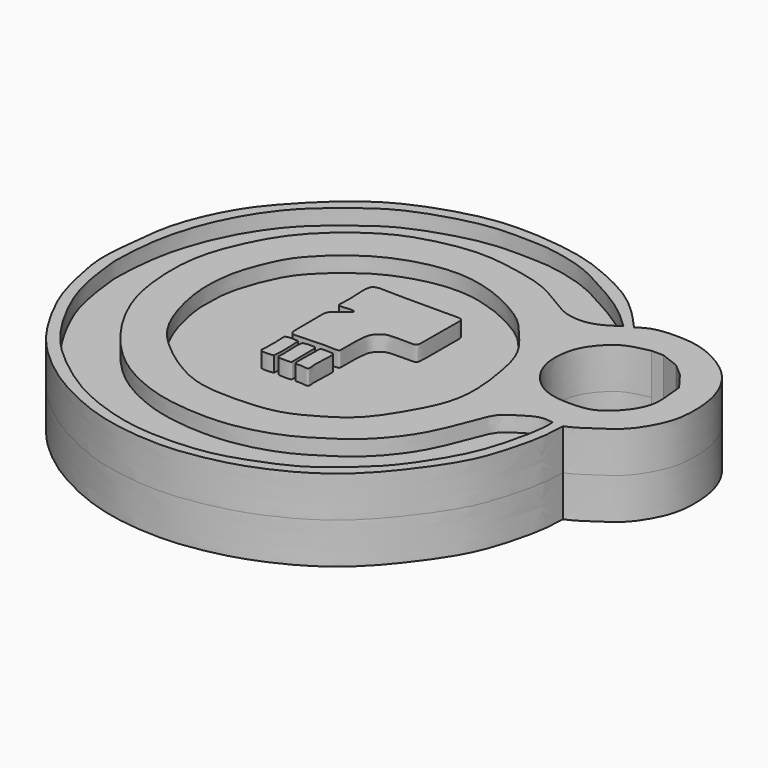
from build123d import *

# Parameters (mm, degrees)
F1_DEPTH = 4
F2_DEPTH = 2.5


with BuildPart() as f1:
    # F0 (on Top) → F1 (new body, symmetric)
    with BuildSketch(Plane.XY):
        with BuildLine():
            add(Edge.make_bspline(
                [(49.6250540018, 25.3603663296), (49.6041552876, 24.5284855052), (49.5391814535, 22.9981034282), (48.800396278, 19.8798473162), (47.660670407, 16.2855274034), (44.7864509935, 12.3052267661), (42.5707945919, 9.6779078572), (39.3867573903, 7.0459323803), (34.7675448189, 4.9042000754), (30.9860487319, 4.0711894016), (27.4303086068, 3.6234501929), (21.6642812609, 4.1804701792), (16.973260492, 6.1950788331), (13.6785819721, 8.1985805588), (10.5414836017, 10.9554166208), (8.3539154884, 13.9290976684), (6.1572030292, 18.0975296527), (5.398589693, 21.2946437775), (4.5786375773, 24.8646372763), (5.1019671106, 28.7849942096), (5.3924372191, 32.6268504655), (7.6315009102, 37.8849504367), (10.5075137841, 41.2110180447), (13.7082417144, 44.3724047135), (17.1477328902, 46.5653744251), (21.5762562121, 48.1613598502), (26.1262273505, 49.052608554), (32.6692116626, 48.3952395965), (36.3153465909, 47.0224810039), (40.5343155117, 44.9543671943), (42.6092544158, 42.6449912994), (43.6660423875, 41.4748825133)],
                knots=[0, 0, 0, 0, 0.0257849781, 0.0553392229, 0.088303858, 0.125268031, 0.1564717921, 0.1903347184, 0.2282937322, 0.2610688196, 0.2926799601, 0.3329500019, 0.3709908041, 0.4039240751, 0.437699992, 0.4703468552, 0.5064423059, 0.5370523335, 0.5688089792, 0.6018516331, 0.6350486958, 0.6746787132, 0.7102468124, 0.7454573624, 0.7793671501, 0.8152702077, 0.8519222348, 0.8944388943, 0.9279571079, 0.9636245138, 1, 1, 1, 1], degree=3))
            add(Edge.make_bspline(
                [(43.6660423875, 41.4748825133), (44.0389129962, 41.728700951), (44.8953210825, 42.3116703042), (47.3065892254, 42.4661274246), (49.3803835281, 42.2344519351), (51.1656259542, 41.5227123733), (53.0642688331, 40.372304896), (54.6046817065, 38.6805938271), (55.6332579766, 36.3860278635), (55.9163356509, 33.7678886526), (55.7161149749, 31.4728563205), (54.7908055948, 29.53386275), (53.652607457, 27.8538819988), (51.7963805227, 26.6255273714), (50.394774834, 25.640836965), (49.6250540018, 25.3603663296)],
                knots=[0, 0, 0, 0, 0.0622792722, 0.142435631, 0.2182308324, 0.289835649, 0.3669698488, 0.4453225023, 0.527428178, 0.6118769342, 0.69060568, 0.7662510485, 0.8396319506, 0.9172437674, 1, 1, 1, 1], degree=3))
        make_face()
        with BuildLine():
            add(Edge.make_bspline(
                [(42.9106727242, 41.1391630769), (42.1583705696, 41.8516928035), (40.5740756874, 43.3522297806), (36.9832612557, 45.3752304833), (34.2231547006, 46.8748778475), (30.3799612045, 47.6896819818), (28.8381144489, 47.6613849044), (25.3574937131, 47.8398824972), (21.6093274365, 47.0301745125), (17.2834927343, 45.505091338), (14.5763258689, 43.4505285987), (11.5372326989, 41.0242193523), (9.7427441133, 38.6636649415), (8.6448978536, 36.8980772163), (7.5151239407, 34.5809224405), (6.7649624698, 32.3534032369), (6.0499937799, 29.4003227026), (5.8375374332, 25.3202150242), (6.006705134, 24.5472492837), (6.3779260858, 20.3992309421), (8.2971670305, 16.1076612663), (10.7535408971, 12.2259366699), (14.0935144523, 9.3382132662), (17.6149529144, 6.9060516376), (22.1869118642, 5.2255061041), (26.1219417962, 4.662064741), (30.9863723614, 4.8864516772), (34.2374401941, 5.9155389119), (38.4950248879, 7.5904587842), (41.4280693646, 10.1938401588), (43.6940644712, 12.2063439054), (46.6269690711, 16.7183421679), (47.8083636759, 19.9655996684), (48.6012330416, 23.5841322774), (48.6533261611, 24.7571013879), (48.6178956926, 25.3603663296)],
                knots=[0, 0, 0, 0, 0.0291620606, 0.0618208015, 0.0915574376, 0.1228713723, 0.1434284707, 0.1728602783, 0.2054622188, 0.2399300561, 0.270125027, 0.3021231397, 0.3299362567, 0.3533578943, 0.3791569339, 0.4038775112, 0.4332462316, 0.4652443425, 0.4801848431, 0.5119892169, 0.5482619565, 0.5829209642, 0.616795376, 0.6505549765, 0.68602627, 0.7188501641, 0.7541432575, 0.7844982328, 0.8190381372, 0.8508654804, 0.8794432813, 0.9165909421, 0.9478565508, 0.9783907221, 1, 1, 1, 1], degree=3))
            add(Edge.make_bspline(
                [(48.6178956926, 25.3603663296), (48.1794123176, 25.4225663082), (47.2331276474, 25.5567991882), (45.676359333, 24.4920786232), (44.5544688712, 23.8614769141), (43.7712516377, 22.105876457), (42.8683971945, 19.479463805), (41.4480963326, 16.7461455456), (38.9865486553, 13.9205631236), (36.7952115051, 12.535090456), (34.5464815007, 11.0583096166), (31.4537763928, 9.9679557046), (27.9909985562, 9.425203962), (23.4790205701, 9.7656850036), (20.2416564265, 10.8153227303), (17.0185623645, 12.5525578744), (14.375733914, 15.2197408436), (12.2651925312, 18.2519331283), (10.7749143904, 21.5560984123), (10.1427286325, 25.3741437767), (10.1791914236, 29.7043932374), (11.7666195914, 33.9415481084), (14.0875041795, 37.9429502106), (18.5033515167, 41.5015264364), (21.8187007914, 42.9257179245), (26.6459282863, 43.9425401498), (30.6118387637, 43.275815212), (34.0226886209, 42.5361064025), (36.6669094259, 40.7945715123), (38.3787502172, 39.8128473438), (40.8453844277, 39.7246614269), (42.2119715484, 40.6606285859), (42.9106727242, 41.1391630769)],
                knots=[0, 0, 0, 0, 0.0215840719, 0.046587475, 0.0674861871, 0.0924895842, 0.1236006119, 0.1566839483, 0.1924493482, 0.2223988955, 0.2526285332, 0.2860121326, 0.3211594245, 0.3604988909, 0.3949677771, 0.4301637847, 0.4661813179, 0.5019049458, 0.5371009577, 0.5735812613, 0.6121313771, 0.6513449064, 0.6916378429, 0.7352420206, 0.7709795983, 0.8116778594, 0.8491636045, 0.8839187476, 0.9166148737, 0.942638807, 0.970677372, 1, 1, 1, 1], degree=3))
        make_face(mode=Mode.SUBTRACT)
        with BuildLine():
            add(Edge.make_bspline(
                [(15.7174244523, 33.333696425), (16.1183595528, 34.0841642087), (16.9938975883, 35.2357514669), (20.4199323764, 38.3973302309), (25.3886741219, 40.1659215732), (29.8010477175, 40.0848799926), (33.7559597272, 38.4165266599), (36.1770152302, 36.7995638131), (37.6168212209, 35.0048181769), (39.537114718, 32.7191218399), (40.2823537481, 29.6475578373), (40.785457777, 26.0257123418), (40.4336531481, 22.8615264256), (38.6544170557, 19.6062818778), (36.6840299513, 16.5468632997), (33.4868456047, 14.640486096), (30.9090554234, 13.3734993706), (26.108682376, 13.1554301396), (22.4486227356, 13.6232501472), (18.3224284018, 16.4035979561), (15.336214655, 19.4120767704), (13.9941887241, 24.3974654569), (13.9151915451, 26.8533832419), (14.1034122066, 29.6648539328), (15.1894668193, 32.3454686688), (15.7174244523, 33.333696425)],
                knots=[0, 0, 0, 0, 0.0346424551, 0.0831172454, 0.135823464, 0.1837242783, 0.230844767, 0.2694816817, 0.3039353754, 0.3428971711, 0.3836486701, 0.4273498818, 0.4679349813, 0.5116827591, 0.5555405343, 0.5988098091, 0.6378454278, 0.6871690717, 0.7315870252, 0.7815587318, 0.8293351066, 0.8802764154, 0.9160873121, 0.9543822714, 1, 1, 1, 1], degree=3))
        make_face(mode=Mode.SUBTRACT)
        with BuildLine():
            add(Edge.make_bspline(
                [(47.1071600914, 39.2927080393), (46.2924564008, 39.1192424218), (44.780678203, 38.7973566348), (43.4572867407, 37.5577074802), (42.3308457562, 36.0762317035), (41.9028123031, 33.6289956222), (42.4741557851, 31.3357605225), (44.2127617125, 29.2988923207), (46.2346929716, 28.6147232562), (48.2147891572, 28.5995789351), (50.156584466, 28.8001718194), (52.1979664641, 30.8806996435), (52.8286535008, 32.6265703431), (52.7369219558, 34.0184564342), (52.6237418809, 35.2086197428), (52.562598139, 35.8515866101)],
                knots=[0, 0, 0, 0, 0.0825829457, 0.1532423361, 0.2256248827, 0.3086213612, 0.390810994, 0.4767274277, 0.5540675603, 0.6287367501, 0.7026550201, 0.7923798802, 0.8646072958, 0.9268562371, 1, 1, 1, 1], degree=3))
            Line((47.1071600914, 39.2927080393), (48.2821762562, 39.2927080393))
            Line((48.2821762562, 39.2927080393), (50.0447042286, 38.6212728918))
            Line((50.0447042286, 38.6212728918), (51.3036511838, 37.5301837921))
            Line((51.3036511838, 37.5301837921), (52.562598139, 35.8515866101))
        make_face(mode=Mode.SUBTRACT)
    extrude(amount=F1_DEPTH, both=True)


with BuildPart() as f1b:
    # F0 (on Top) → F1, piece 2 (new body, symmetric)
    with BuildSketch(Plane.XY):
        with BuildLine():
            add(Edge.make_bspline(
                [(25.3584720194, 30.1984250546), (25.3237544531, 30.3082954137), (24.5622288978, 30.295054064), (23.6940317619, 30.1200762861), (23.7981972492, 30.9119261971), (23.8064515069, 32.4726487339), (23.5670739893, 34.4793138805), (25.295060866, 34.3770721032), (27.4430489504, 34.3497551159), (29.3807265631, 34.3704597063), (31.5989585187, 34.3559784006), (32.6310618325, 34.3944143964), (32.6622735165, 33.6655438017), (32.6121525699, 31.1934649276), (32.6451326621, 29.864573272), (32.6211364028, 28.7638845742), (31.8643592069, 28.8261966827), (29.9690028115, 28.822859443), (29.4938683331, 28.6830701311), (28.9193943544, 28.1910591813), (28.5111966349, 27.6086329641), (28.5124464513, 24.947078798), (28.5736242537, 24.3481660477), (27.519632425, 24.4646144242), (26.432942767, 24.4594901545), (24.4259014025, 24.305087834), (23.742878361, 24.4155124172), (23.7969495491, 25.6754489753), (23.7400582735, 28.1419486866), (23.8014570724, 28.9053241325), (24.6222850899, 29.5392781125), (25.3962481117, 30.0788754069), (25.3584720194, 30.1984250546)],
                knots=[0, 0, 0, 0, 0.0267712667, 0.0538645981, 0.0763792358, 0.1167688543, 0.1562335567, 0.1913161822, 0.2371749641, 0.2810443522, 0.3273341443, 0.3552238027, 0.3779664603, 0.4265071821, 0.4643218844, 0.4925085216, 0.5166783123, 0.5591736158, 0.5814068524, 0.6063023627, 0.632943968, 0.6830145846, 0.7034743131, 0.7312854039, 0.7657865756, 0.8093286098, 0.8313806813, 0.8638526491, 0.9129884605, 0.9389396828, 0.9708702554, 1, 1, 1, 1], degree=3))
        make_face()
    extrude(amount=F1_DEPTH, both=True)


with BuildPart() as f1c:
    # F0 (on Top) → F1, piece 3 (new body, symmetric)
    with BuildSketch(Plane.XY):
        with BuildLine():
            add(Edge.make_bspline(
                [(25.6396494806, 23.6998610198), (25.8224070937, 23.7494312797), (26.522313083, 23.7714172452), (26.8146642872, 23.729564148), (26.8435238627, 23.033122053), (26.8364220312, 20.9878445915), (26.8771244475, 20.6825967463), (26.5129480648, 20.6312200268), (25.4110441614, 20.6358315788), (25.5571840573, 21.0845391701), (25.4308224334, 22.8560660301), (25.4771844462, 23.5924104504), (25.5606824365, 23.6784423942), (25.6396494806, 23.6998610198)],
                knots=[0, 0, 0, 0, 0.1058447374, 0.1609406405, 0.2507754744, 0.4146119922, 0.4685473555, 0.5326043851, 0.6436388451, 0.7063382121, 0.8593472289, 0.9542659487, 1, 1, 1, 1], degree=3))
        make_face()
        with BuildLine():
            add(Edge.make_bspline(
                [(25.1121878389, 20.7288015749), (25.2104665893, 21.7298188054), (25.161434096, 22.6975629588), (25.0871186811, 23.7026153981)],
                knots=[0, 0, 0, 0, 2.9739194874, 2.9739194874, 2.9739194874, 2.9739194874], degree=3))
            add(Edge.make_bspline(
                [(25.0871186811, 23.7026153981), (24.7826245211, 23.7745811729), (23.7554245423, 23.8037743593), (23.8237702711, 23.3716931188), (23.8479194184, 22.1644904192), (23.8285818669, 21.0729425896), (23.7377277157, 20.5938115775), (24.823619481, 20.640183599), (25.1121878389, 20.7288015749)],
                knots=[0, 0, 0, 0, 0.200549177, 0.2969923572, 0.5008583651, 0.6965755911, 0.7973875027, 1, 1, 1, 1], degree=3))
        make_face()
    extrude(amount=F1_DEPTH, both=True)


with BuildPart() as f1d:
    # F0 (on Top) → F1, piece 4 (new body, symmetric)
    with BuildSketch(Plane.XY):
        with BuildLine():
            add(Edge.make_bspline(
                [(27.23213844, 23.7589348108), (27.1623008803, 23.701992579), (27.2200514343, 23.3971186342), (27.143942032, 22.4076328818), (27.1488617146, 21.1568035813), (27.1524106737, 20.6059158051), (27.7773602293, 20.7638043506), (28.660354154, 20.4768313328), (28.4266683937, 21.3725566525), (28.5380085425, 22.4624972338), (28.556782305, 23.3125519342), (28.5503802809, 23.8162032333), (27.9148245929, 23.7925412567), (27.3356153945, 23.8433050085), (27.23213844, 23.7589348108)],
                knots=[0, 0, 0, 0, 0.0558572025, 0.1585487645, 0.2744274609, 0.3368510012, 0.4114946226, 0.495687554, 0.5755114055, 0.6854918557, 0.7796036035, 0.8409861747, 0.9172374689, 1, 1, 1, 1], degree=3))
        make_face()
    extrude(amount=F1_DEPTH, both=True)


with BuildPart() as f2:
    # F0 (on Top) → F2 (new body, symmetric)
    with BuildSketch(Plane.XY):
        with BuildLine():
            add(Edge.make_bspline(
                [(48.6178956926, 25.3603663296), (48.1794123176, 25.4225663082), (47.2331276474, 25.5567991882), (45.676359333, 24.4920786232), (44.5544688712, 23.8614769141), (43.7712516377, 22.105876457), (42.8683971945, 19.479463805), (41.4480963326, 16.7461455456), (38.9865486553, 13.9205631236), (36.7952115051, 12.535090456), (34.5464815007, 11.0583096166), (31.4537763928, 9.9679557046), (27.9909985562, 9.425203962), (23.4790205701, 9.7656850036), (20.2416564265, 10.8153227303), (17.0185623645, 12.5525578744), (14.375733914, 15.2197408436), (12.2651925312, 18.2519331283), (10.7749143904, 21.5560984123), (10.1427286325, 25.3741437767), (10.1791914236, 29.7043932374), (11.7666195914, 33.9415481084), (14.0875041795, 37.9429502106), (18.5033515167, 41.5015264364), (21.8187007914, 42.9257179245), (26.6459282863, 43.9425401498), (30.6118387637, 43.275815212), (34.0226886209, 42.5361064025), (36.6669094259, 40.7945715123), (38.3787502172, 39.8128473438), (40.8453844277, 39.7246614269), (42.2119715484, 40.6606285859), (42.9106727242, 41.1391630769)],
                knots=[0, 0, 0, 0, 0.0215840719, 0.046587475, 0.0674861871, 0.0924895842, 0.1236006119, 0.1566839483, 0.1924493482, 0.2223988955, 0.2526285332, 0.2860121326, 0.3211594245, 0.3604988909, 0.3949677771, 0.4301637847, 0.4661813179, 0.5019049458, 0.5371009577, 0.5735812613, 0.6121313771, 0.6513449064, 0.6916378429, 0.7352420206, 0.7709795983, 0.8116778594, 0.8491636045, 0.8839187476, 0.9166148737, 0.942638807, 0.970677372, 1, 1, 1, 1], degree=3))
            add(Edge.make_bspline(
                [(42.9106727242, 41.1391630769), (42.1583705696, 41.8516928035), (40.5740756874, 43.3522297806), (36.9832612557, 45.3752304833), (34.2231547006, 46.8748778475), (30.3799612045, 47.6896819818), (28.8381144489, 47.6613849044), (25.3574937131, 47.8398824972), (21.6093274365, 47.0301745125), (17.2834927343, 45.505091338), (14.5763258689, 43.4505285987), (11.5372326989, 41.0242193523), (9.7427441133, 38.6636649415), (8.6448978536, 36.8980772163), (7.5151239407, 34.5809224405), (6.7649624698, 32.3534032369), (6.0499937799, 29.4003227026), (5.8375374332, 25.3202150242), (6.006705134, 24.5472492837), (6.3779260858, 20.3992309421), (8.2971670305, 16.1076612663), (10.7535408971, 12.2259366699), (14.0935144523, 9.3382132662), (17.6149529144, 6.9060516376), (22.1869118642, 5.2255061041), (26.1219417962, 4.662064741), (30.9863723614, 4.8864516772), (34.2374401941, 5.9155389119), (38.4950248879, 7.5904587842), (41.4280693646, 10.1938401588), (43.6940644712, 12.2063439054), (46.6269690711, 16.7183421679), (47.8083636759, 19.9655996684), (48.6012330416, 23.5841322774), (48.6533261611, 24.7571013879), (48.6178956926, 25.3603663296)],
                knots=[0, 0, 0, 0, 0.0291620606, 0.0618208015, 0.0915574376, 0.1228713723, 0.1434284707, 0.1728602783, 0.2054622188, 0.2399300561, 0.270125027, 0.3021231397, 0.3299362567, 0.3533578943, 0.3791569339, 0.4038775112, 0.4332462316, 0.4652443425, 0.4801848431, 0.5119892169, 0.5482619565, 0.5829209642, 0.616795376, 0.6505549765, 0.68602627, 0.7188501641, 0.7541432575, 0.7844982328, 0.8190381372, 0.8508654804, 0.8794432813, 0.9165909421, 0.9478565508, 0.9783907221, 1, 1, 1, 1], degree=3))
        make_face()
    extrude(amount=F2_DEPTH, both=True)


with BuildPart() as f2b:
    # F0 (on Top) → F2, piece 2 (new body, symmetric)
    with BuildSketch(Plane.XY):
        with BuildLine():
            add(Edge.make_bspline(
                [(15.7174244523, 33.333696425), (16.1183595528, 34.0841642087), (16.9938975883, 35.2357514669), (20.4199323764, 38.3973302309), (25.3886741219, 40.1659215732), (29.8010477175, 40.0848799926), (33.7559597272, 38.4165266599), (36.1770152302, 36.7995638131), (37.6168212209, 35.0048181769), (39.537114718, 32.7191218399), (40.2823537481, 29.6475578373), (40.785457777, 26.0257123418), (40.4336531481, 22.8615264256), (38.6544170557, 19.6062818778), (36.6840299513, 16.5468632997), (33.4868456047, 14.640486096), (30.9090554234, 13.3734993706), (26.108682376, 13.1554301396), (22.4486227356, 13.6232501472), (18.3224284018, 16.4035979561), (15.336214655, 19.4120767704), (13.9941887241, 24.3974654569), (13.9151915451, 26.8533832419), (14.1034122066, 29.6648539328), (15.1894668193, 32.3454686688), (15.7174244523, 33.333696425)],
                knots=[0, 0, 0, 0, 0.0346424551, 0.0831172454, 0.135823464, 0.1837242783, 0.230844767, 0.2694816817, 0.3039353754, 0.3428971711, 0.3836486701, 0.4273498818, 0.4679349813, 0.5116827591, 0.5555405343, 0.5988098091, 0.6378454278, 0.6871690717, 0.7315870252, 0.7815587318, 0.8293351066, 0.8802764154, 0.9160873121, 0.9543822714, 1, 1, 1, 1], degree=3))
        make_face()
        with BuildLine():
            add(Edge.make_bspline(
                [(25.0871186811, 23.7026153981), (24.7826245211, 23.7745811729), (23.7554245423, 23.8037743593), (23.8237702711, 23.3716931188), (23.8479194184, 22.1644904192), (23.8285818669, 21.0729425896), (23.7377277157, 20.5938115775), (24.823619481, 20.640183599), (25.1121878389, 20.7288015749)],
                knots=[0, 0, 0, 0, 0.200549177, 0.2969923572, 0.5008583651, 0.6965755911, 0.7973875027, 1, 1, 1, 1], degree=3))
            add(Edge.make_bspline(
                [(25.1121878389, 20.7288015749), (25.2104665893, 21.7298188054), (25.161434096, 22.6975629588), (25.0871186811, 23.7026153981)],
                knots=[0, 0, 0, 0, 2.9739194874, 2.9739194874, 2.9739194874, 2.9739194874], degree=3))
        make_face(mode=Mode.SUBTRACT)
        with BuildLine():
            add(Edge.make_bspline(
                [(25.6396494806, 23.6998610198), (25.8224070937, 23.7494312797), (26.522313083, 23.7714172452), (26.8146642872, 23.729564148), (26.8435238627, 23.033122053), (26.8364220312, 20.9878445915), (26.8771244475, 20.6825967463), (26.5129480648, 20.6312200268), (25.4110441614, 20.6358315788), (25.5571840573, 21.0845391701), (25.4308224334, 22.8560660301), (25.4771844462, 23.5924104504), (25.5606824365, 23.6784423942), (25.6396494806, 23.6998610198)],
                knots=[0, 0, 0, 0, 0.1058447374, 0.1609406405, 0.2507754744, 0.4146119922, 0.4685473555, 0.5326043851, 0.6436388451, 0.7063382121, 0.8593472289, 0.9542659487, 1, 1, 1, 1], degree=3))
        make_face(mode=Mode.SUBTRACT)
        with BuildLine():
            add(Edge.make_bspline(
                [(27.23213844, 23.7589348108), (27.1623008803, 23.701992579), (27.2200514343, 23.3971186342), (27.143942032, 22.4076328818), (27.1488617146, 21.1568035813), (27.1524106737, 20.6059158051), (27.7773602293, 20.7638043506), (28.660354154, 20.4768313328), (28.4266683937, 21.3725566525), (28.5380085425, 22.4624972338), (28.556782305, 23.3125519342), (28.5503802809, 23.8162032333), (27.9148245929, 23.7925412567), (27.3356153945, 23.8433050085), (27.23213844, 23.7589348108)],
                knots=[0, 0, 0, 0, 0.0558572025, 0.1585487645, 0.2744274609, 0.3368510012, 0.4114946226, 0.495687554, 0.5755114055, 0.6854918557, 0.7796036035, 0.8409861747, 0.9172374689, 1, 1, 1, 1], degree=3))
        make_face(mode=Mode.SUBTRACT)
        with BuildLine():
            add(Edge.make_bspline(
                [(25.3584720194, 30.1984250546), (25.3237544531, 30.3082954137), (24.5622288978, 30.295054064), (23.6940317619, 30.1200762861), (23.7981972492, 30.9119261971), (23.8064515069, 32.4726487339), (23.5670739893, 34.4793138805), (25.295060866, 34.3770721032), (27.4430489504, 34.3497551159), (29.3807265631, 34.3704597063), (31.5989585187, 34.3559784006), (32.6310618325, 34.3944143964), (32.6622735165, 33.6655438017), (32.6121525699, 31.1934649276), (32.6451326621, 29.864573272), (32.6211364028, 28.7638845742), (31.8643592069, 28.8261966827), (29.9690028115, 28.822859443), (29.4938683331, 28.6830701311), (28.9193943544, 28.1910591813), (28.5111966349, 27.6086329641), (28.5124464513, 24.947078798), (28.5736242537, 24.3481660477), (27.519632425, 24.4646144242), (26.432942767, 24.4594901545), (24.4259014025, 24.305087834), (23.742878361, 24.4155124172), (23.7969495491, 25.6754489753), (23.7400582735, 28.1419486866), (23.8014570724, 28.9053241325), (24.6222850899, 29.5392781125), (25.3962481117, 30.0788754069), (25.3584720194, 30.1984250546)],
                knots=[0, 0, 0, 0, 0.0267712667, 0.0538645981, 0.0763792358, 0.1167688543, 0.1562335567, 0.1913161822, 0.2371749641, 0.2810443522, 0.3273341443, 0.3552238027, 0.3779664603, 0.4265071821, 0.4643218844, 0.4925085216, 0.5166783123, 0.5591736158, 0.5814068524, 0.6063023627, 0.632943968, 0.6830145846, 0.7034743131, 0.7312854039, 0.7657865756, 0.8093286098, 0.8313806813, 0.8638526491, 0.9129884605, 0.9389396828, 0.9708702554, 1, 1, 1, 1], degree=3))
        make_face(mode=Mode.SUBTRACT)
    extrude(amount=F2_DEPTH, both=True)


solid = Compound([f1.part, f1b.part, f1c.part, f1d.part, f2.part, f2b.part])
